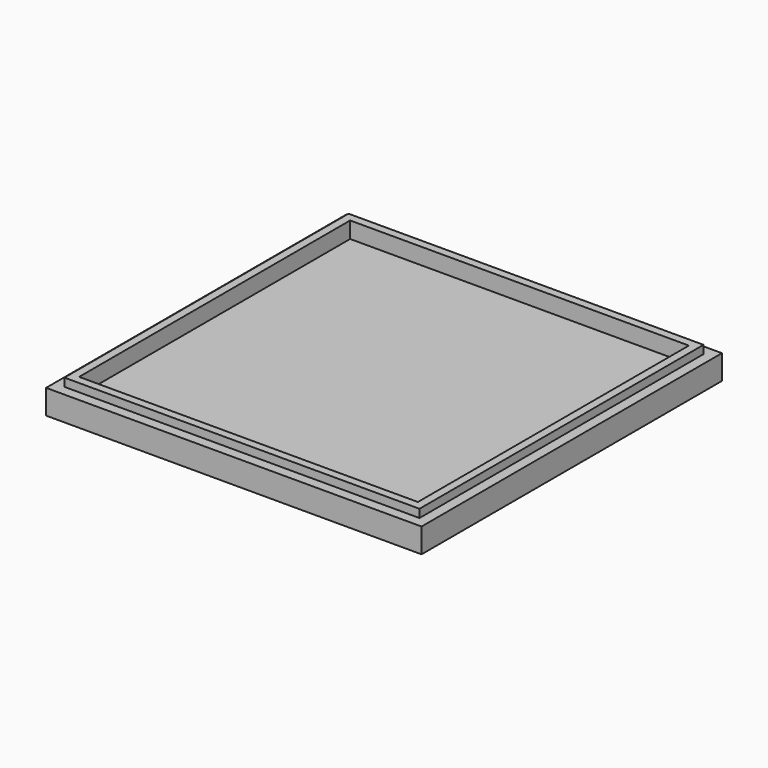
from build123d import *

# Parameters (mm, degrees)
F0_W          = 584.2
F0_H          = 584.2
F1_DEPTH      = 12.7
F2_W          = 584.2
F2_H          = 584.2
F2_W_2        = 558.8
F2_H_2        = 558.8
F3_DEPTH      = 152.4
F4_W          = 1017.536164
F4_H          = 883.057714
F4_W_2        = 558.8
F4_H_2        = 558.8
F5_DEPTH      = 508
F6_W          = 552.45
F6_H          = 552.45
F6_W_2        = 527.05
F6_H_2        = 527.05
F7_DEPTH      = 25.4
F8_W          = 584.2
F8_H          = 584.2
F8_W_2        = 552.45
F8_H_2        = 552.45
F9_DEPTH      = 12.7
F9_DEPTH_BACK = 25.4


with BuildPart() as f1:
    # F0 (on Top) → F1 (new body)
    with BuildSketch(Plane.XY):
        Rectangle(F0_W, F0_H)
    extrude(amount=F1_DEPTH)

    # F2 (on face) → F3 (join)
    with BuildSketch(Plane.XY.offset(12.7)):
        Rectangle(F2_W, F2_H)
        Rectangle(F2_W_2, F2_H_2, mode=Mode.SUBTRACT)
    extrude(amount=F3_DEPTH)

    # F4 (on face) → F5 (cut)
    with BuildSketch(Plane.XY.offset(12.7)):
        Rectangle(F4_W, F4_H)
        Rectangle(F4_W_2, F4_H_2, mode=Mode.SUBTRACT)
    extrude(amount=F5_DEPTH, mode=Mode.SUBTRACT)

    # F6 (on face) → F7 (join)
    with BuildSketch(Plane.XY.offset(12.7)):
        Rectangle(F6_W, F6_H)
        Rectangle(F6_W_2, F6_H_2, mode=Mode.SUBTRACT)
    extrude(amount=F7_DEPTH)

    # F8 (on face) → F9 (join, two sides)
    with BuildSketch(Plane.XY.offset(12.7)) as f9_sk:
        Rectangle(F8_W, F8_H)
        Rectangle(F8_W_2, F8_H_2, mode=Mode.SUBTRACT)
    extrude(amount=F9_DEPTH)
    extrude(f9_sk.sketch, amount=-F9_DEPTH_BACK)


solid = f1.part
